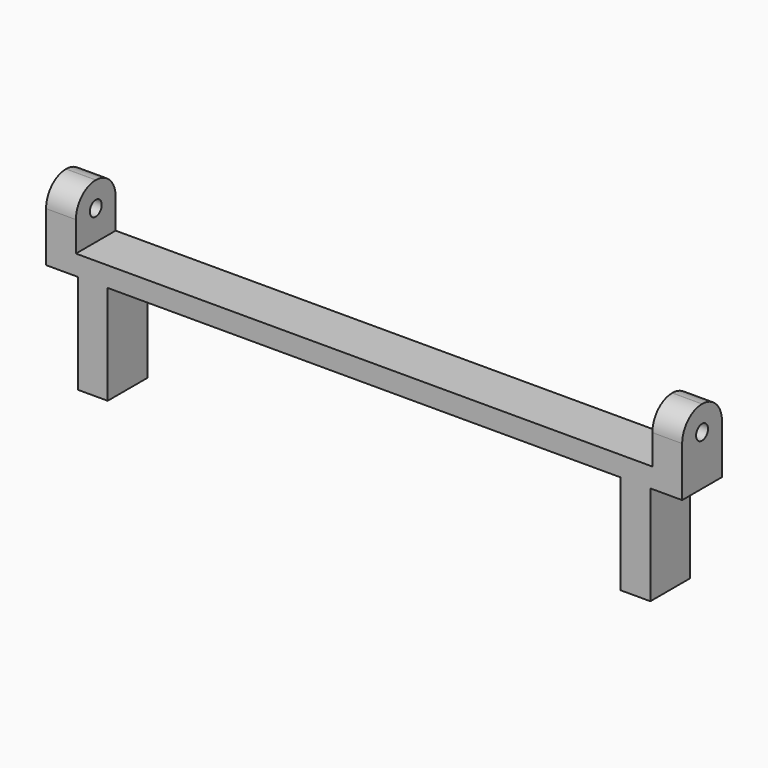
from build123d import *

# Parameters (mm, degrees)
SKETCH_W     = 64
SKETCH_H     = 5
PAD_DEPTH    = 2
SKETCH001_W  = 3
SKETCH001_H  = 5
PAD001_DEPTH = 5.5
SKETCH003_W  = 3
SKETCH003_H  = 5
PAD002_DEPTH = 10
SKETCH004_R  = 0.75
POCKET_DEPTH = 100
FILLET_R     = 2.49


with BuildPart() as part:
    # Sketch → Pad (new body)
    with BuildSketch(Plane.XY):
        Rectangle(SKETCH_W, SKETCH_H)
    extrude(amount=PAD_DEPTH)

    # Sketch001 (on Face6 of Pad) → Pad001 (join)
    with BuildSketch(Plane.XY.offset(2)):
        with Locations((-30.5, 0)):
            Rectangle(SKETCH001_W, SKETCH001_H)
        with Locations((30.5, 0)):
            Rectangle(SKETCH001_W, SKETCH001_H)
    extrude(amount=PAD001_DEPTH)

    # Sketch003 → Pad002 (join)
    with BuildSketch(Plane(origin=(0, 0, 0), x_dir=(1, 0, 0), z_dir=(0, 0, -1))):
        with Locations((-27.3, 0)):
            Rectangle(SKETCH003_W, SKETCH003_H)
        with Locations((27.3, 0)):
            Rectangle(SKETCH003_W, SKETCH003_H)
    extrude(amount=PAD002_DEPTH)

    # Sketch004 (on Face13 of Pad002) → Pocket (cut)
    with BuildSketch(Plane(origin=(-32, 0, 0), x_dir=(0, -1, 0), z_dir=(-1, 0, 0))):
        with Locations((0, 5)):
            Circle(SKETCH004_R)
    extrude(amount=-POCKET_DEPTH, mode=Mode.SUBTRACT)

    # Fillet
    fillet_edges = [part.edges().sort_by_distance(p)[0] for p in [
        (30.5, -2.5, 7.5),
        (30.5, 2.5, 7.5),
        (-30.5, -2.5, 7.5),
        (-30.5, 2.5, 7.5),
    ]]
    fillet(fillet_edges, radius=FILLET_R)


solid = part.part
